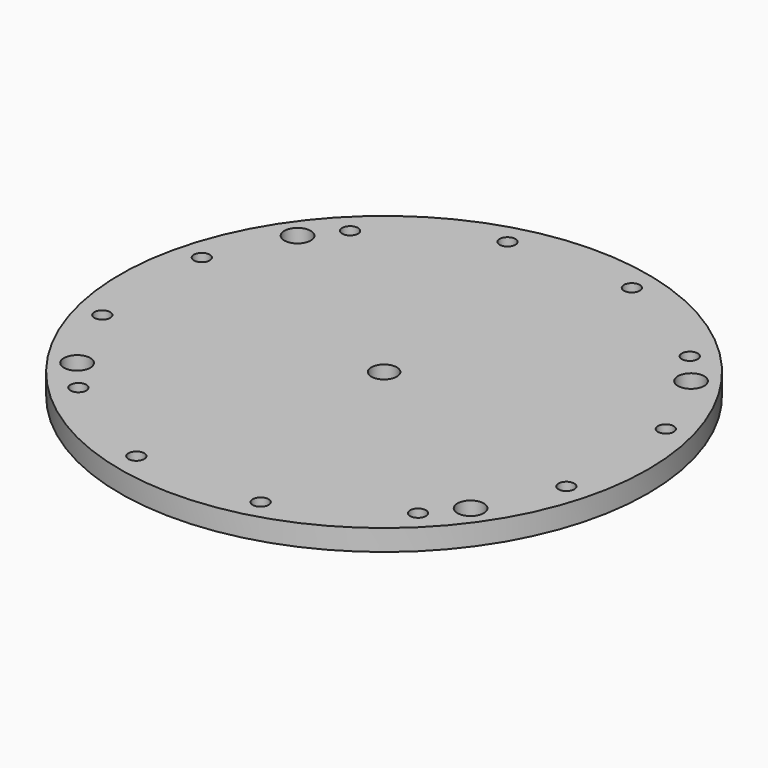
from build123d import *

# Parameters (mm, degrees)
F0_R     = 250
F0_R_2   = 12.05
F1_DEPTH = 20
F2_R     = 7.5
F3_DEPTH = 20
F4_R     = 12.5
F5_DEPTH = 20


with BuildPart() as f1:
    # F0 (on Top) → F1 (new body)
    with BuildSketch(Plane.XY):
        Circle(F0_R)
        Circle(F0_R_2, mode=Mode.SUBTRACT)
    extrude(amount=F1_DEPTH)

    # F2 (on face) → F3 (cut, through all)
    with BuildSketch(Plane.XY.offset(20)):
        with Locations((219.748125, 58.881333)):
            Circle(F2_R)
        with Locations((160.866793, 160.866793)):
            Circle(F2_R)
        with Locations((58.881333, 219.748125)):
            Circle(F2_R)
        with Locations((-58.881333, 219.748125)):
            Circle(F2_R)
        with Locations((-160.866793, 160.866793)):
            Circle(F2_R)
        with Locations((-219.748125, 58.881333)):
            Circle(F2_R)
        with Locations((-219.748125, -58.881333)):
            Circle(F2_R)
        with Locations((-160.866793, -160.866793)):
            Circle(F2_R)
        with Locations((-58.881333, -219.748125)):
            Circle(F2_R)
        with Locations((58.881333, -219.748125)):
            Circle(F2_R)
        with Locations((160.866793, -160.866793)):
            Circle(F2_R)
        with Locations((219.748125, -58.881333)):
            Circle(F2_R)
    extrude(amount=-F3_DEPTH, mode=Mode.SUBTRACT)

    # F4 (on face) → F5 (cut)
    with BuildSketch(Plane.XY.offset(20)):
        with Locations((186.35709, 130.488639)):
            Circle(F4_R)
        with Locations((-186.35709, 130.488639)):
            Circle(F4_R)
        with Locations((-186.35709, -130.488639)):
            Circle(F4_R)
        with Locations((186.35709, -130.488639)):
            Circle(F4_R)
    extrude(amount=-F5_DEPTH, mode=Mode.SUBTRACT)


solid = f1.part
